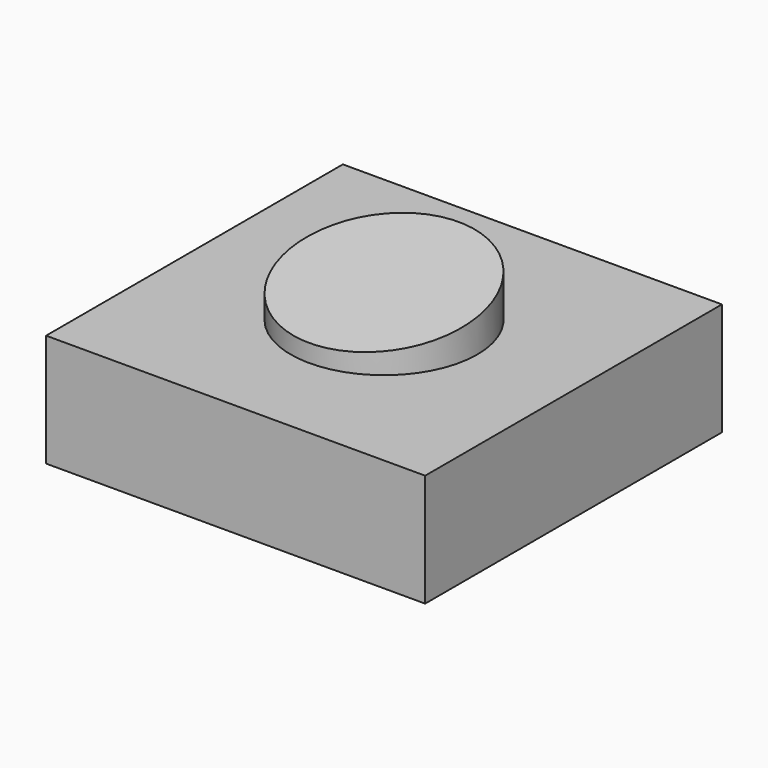
from build123d import *

# Parameters (mm, degrees)
F0_W     = 85.474864
F0_H     = 83.643266
F2_DEPTH = 25.4
F1_R     = 21.045821
F3_DEPTH = 44.958
F5_DEPTH = 32.766


with BuildPart() as f2:
    # F0 (on Top) → F2 (new body)
    with BuildSketch(Plane.XY):
        Rectangle(F0_W, F0_H)
    extrude(amount=F2_DEPTH)

    # F1 (on face) → F3 (join)
    with BuildSketch(Plane.XY):
        Circle(F1_R)
    extrude(amount=F3_DEPTH)

    # F4 (on Right) → F5 (cut, symmetric)
    with BuildSketch(Plane.YZ):
        Polygon((25.421897, 37.048966), (25.421897, 48.478965), (-27.195517, 49.070172), (-27.195517, 28.37793), align=None)
    extrude(amount=F5_DEPTH, both=True, mode=Mode.SUBTRACT)


solid = f2.part
